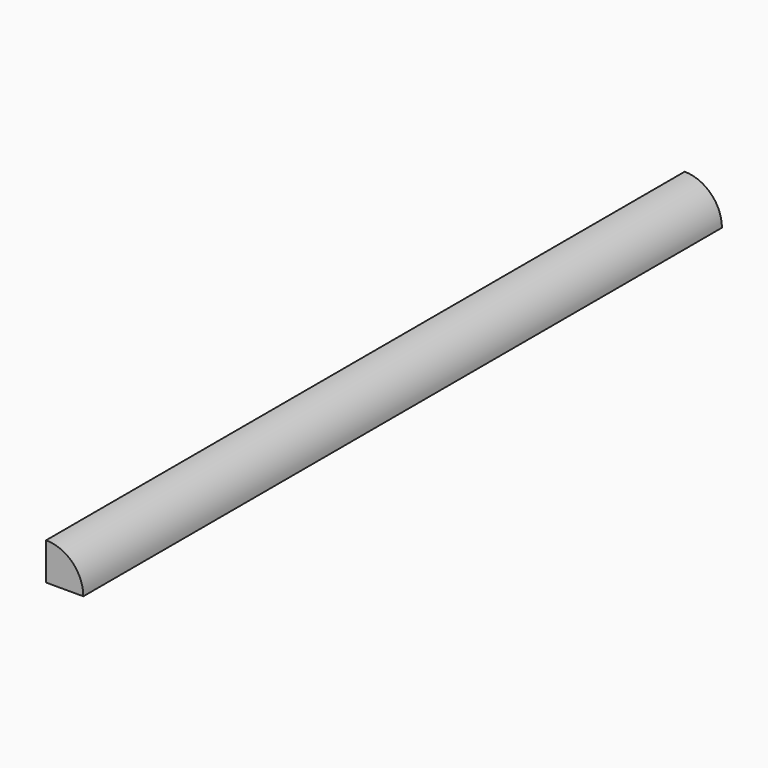
from build123d import *

# Parameters (mm, degrees)
F1_DEPTH = 300


with BuildPart() as f1:
    # F0 (on Front) → F1 (new body, symmetric)
    with BuildSketch(Plane.XZ):
        with BuildLine():
            Line((0, 0), (28, 0))
            ThreePointArc((28, 0), (19.79899, 19.79899), (0, 28))
            Line((0, 28), (0, 0))
        make_face()
    extrude(amount=F1_DEPTH, both=True)


solid = f1.part
